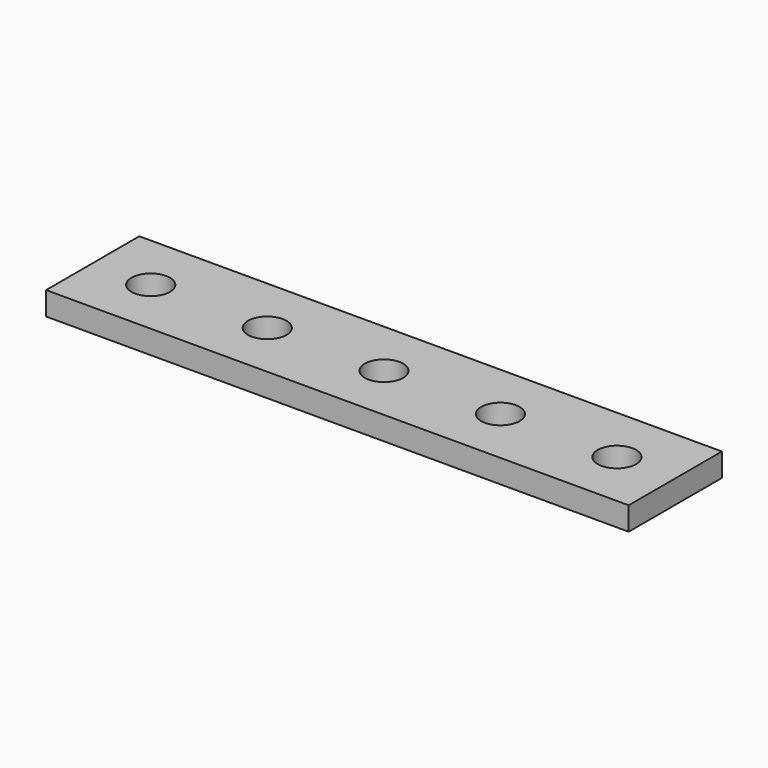
from build123d import *

# Parameters (mm, degrees)
SKETCH_W      = 50
SKETCH_H      = 10
SKETCH_R      = 1.65
EXTRUDE_DEPTH = 2


with BuildPart() as part:
    # Sketch → Extrude (new body)
    with BuildSketch(Plane.XY):
        with Locations((-0.011247, 0.023613)):
            Rectangle(SKETCH_W, SKETCH_H)
        with Locations((-0.011247, 0.023613)):
            Circle(SKETCH_R, mode=Mode.SUBTRACT)
        with Locations((-10.011247, 0)):
            Circle(SKETCH_R, mode=Mode.SUBTRACT)
        with Locations((-20.011247, 0)):
            Circle(SKETCH_R, mode=Mode.SUBTRACT)
        with Locations((10, 0)):
            Circle(SKETCH_R, mode=Mode.SUBTRACT)
        with Locations((20, 0)):
            Circle(SKETCH_R, mode=Mode.SUBTRACT)
    extrude(amount=EXTRUDE_DEPTH)


solid = part.part
